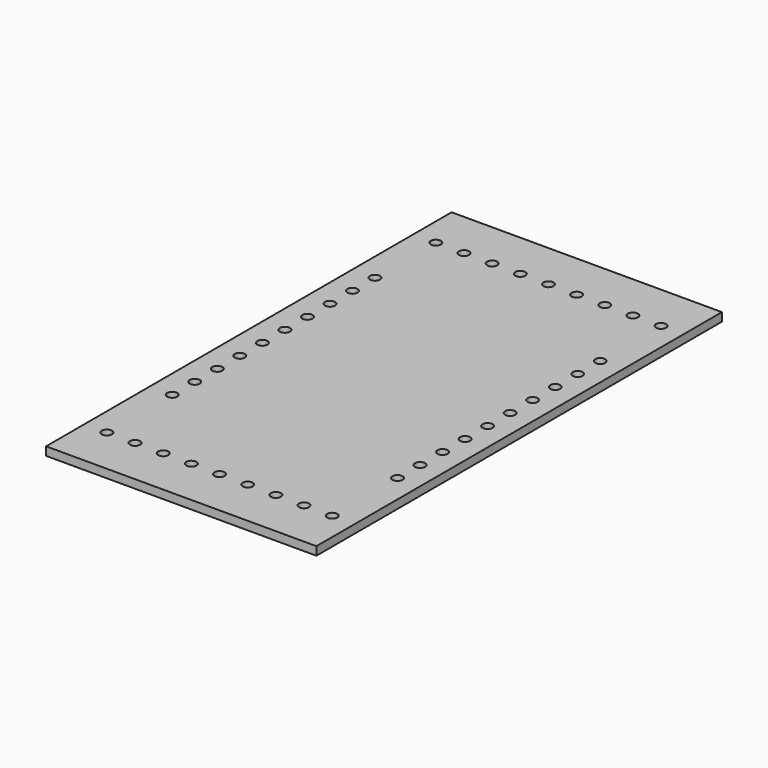
from build123d import *

# Parameters (mm, degrees)
CYLINDER004_R     = 1.8
CYLINDER004_DEPTH = 200
ARRAY003_X_COUNT  = 9
ARRAY003_X_PITCH  = 10
ARRAY003_Y_COUNT  = 2
ARRAY003_Y_PITCH  = 146
CYLINDER006_R     = 1.8
CYLINDER006_DEPTH = 200
ARRAY005_X_COUNT  = 2
ARRAY005_X_PITCH  = 80
ARRAY005_Y_COUNT  = 10
ARRAY005_Y_PITCH  = 10
BOX002_W          = 96
BOX002_H          = 180
BOX002_DEPTH      = 3


with BuildPart() as psu_bottom_bolt_hole_array:
    # Cylinder004 → Cylinder004 (new body)
    with BuildSketch(Plane(origin=(-40, 20, 0), x_dir=(1, 0, 0), z_dir=(0, 0, 1))):
        Circle(CYLINDER004_R)
    extrude(amount=CYLINDER004_DEPTH)

    # Array003 X: psu bottom bolt hole array ×9


with BuildPart() as psu_bottom_bolt_hole_array_1:
    add(psu_bottom_bolt_hole_array.part)
    with Locations(*[(i * ARRAY003_X_PITCH, 0, 0) for i in range(1, ARRAY003_X_COUNT)]):
        add(psu_bottom_bolt_hole_array.part)

    # Array003 Y: psu bottom bolt hole array ×2


with BuildPart() as psu_bottom_bolt_hole_array_2:
    add(psu_bottom_bolt_hole_array_1.part)
    with Locations(*[(0, i * ARRAY003_Y_PITCH, 0) for i in range(1, ARRAY003_Y_COUNT)]):
        add(psu_bottom_bolt_hole_array_1.part)


with BuildPart() as bottom_hole_fusion:
    # Cylinder006 → Cylinder006 (new body)
    with BuildSketch(Plane(origin=(-40, 9, 0), x_dir=(1, 0, 0), z_dir=(0, 0, 1))):
        Circle(CYLINDER006_R)
    extrude(amount=CYLINDER006_DEPTH)

    # Array005 X: bottom hole fusion ×2


with BuildPart() as bottom_hole_fusion_1:
    add(bottom_hole_fusion.part)
    with Locations(*[(i * ARRAY005_X_PITCH, 0, 0) for i in range(1, ARRAY005_X_COUNT)]):
        add(bottom_hole_fusion.part)

    # Array005 Y: bottom hole fusion ×10


with BuildPart() as bottom_hole_fusion_2:
    add(bottom_hole_fusion_1.part)
    with Locations(*[(0, i * ARRAY005_Y_PITCH, 0) for i in range(1, ARRAY005_Y_COUNT)]):
        add(bottom_hole_fusion_1.part)


with BuildPart() as bottom_hole_fusion_3:
    # Array005 placement: moved
    add(bottom_hole_fusion_2.part.moved(Location((0, 40, 0))))

    # Fusion002: union psu bottom bolt hole array
    add(psu_bottom_bolt_hole_array_2.part)


with BuildPart() as psu_bottom_cut:
    # Box002 → Box002 (new body)
    with BuildSketch(Plane(origin=(-48, 3, 0), x_dir=(1, 0, 0), z_dir=(0, 0, 1))):
        with Locations((48, 90)):
            Rectangle(BOX002_W, BOX002_H)
    extrude(amount=BOX002_DEPTH)

    # Cut004: cut bottom hole fusion
    add(bottom_hole_fusion_3.part, mode=Mode.SUBTRACT)


solid = psu_bottom_cut.part
